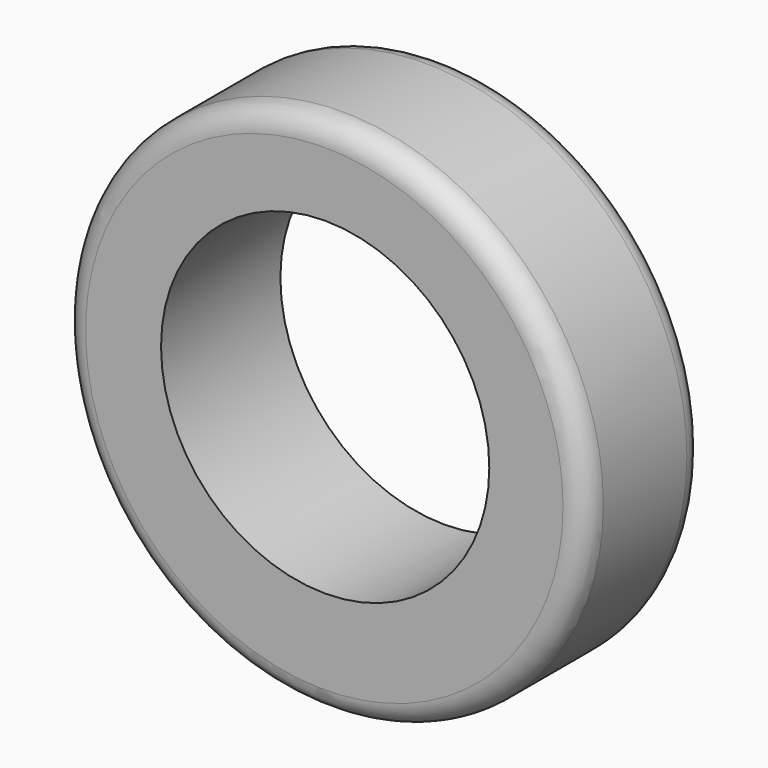
from build123d import *

# Parameters (mm, degrees)
F0_R     = 44.45
F1_DEPTH = 12.7
F2_R     = 3.81
F3_R     = 27.94
F4_DEPTH = 25.401


with BuildPart() as f1:
    # F0 (on Front) → F1 (new body, symmetric)
    with BuildSketch(Plane.XZ):
        with Locations((30.440104, -5.716477)):
            Circle(F0_R)
    extrude(amount=F1_DEPTH, both=True)

    # F2
    f2_edges = [f1.edges().sort_by_distance(p)[0] for p in [
        (-14.009896, -12.7, -5.716477),
        (-14.009896, 12.7, -5.716477),
    ]]
    fillet(f2_edges, radius=F2_R)

    # F3 (on face) → F4 (cut, through all)
    with BuildSketch(Plane.XZ.offset(12.7)):
        with Locations((30.583977, -3.976314)):
            Circle(F3_R)
    extrude(amount=-F4_DEPTH, mode=Mode.SUBTRACT)


solid = f1.part
